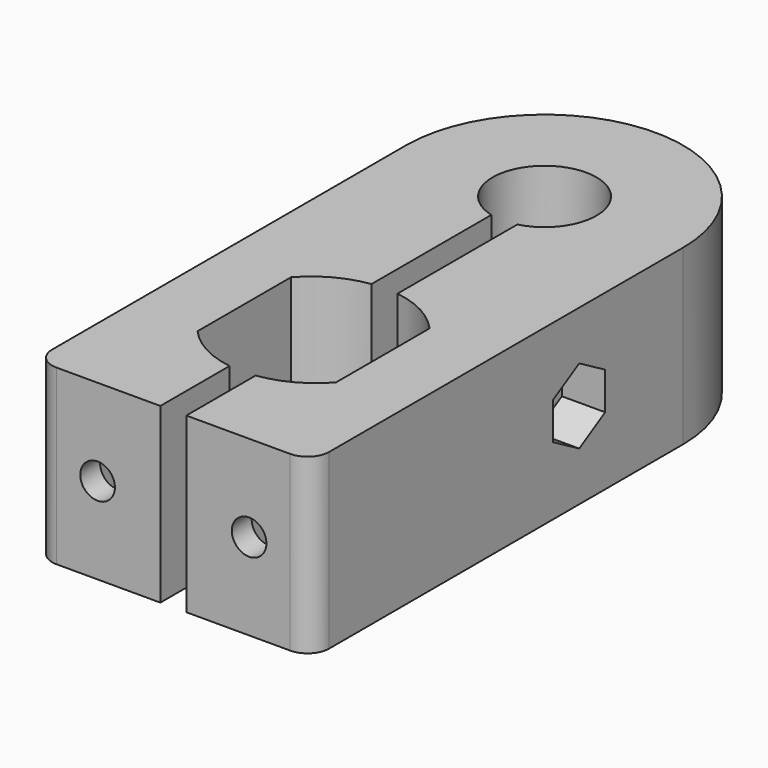
from build123d import *

# Parameters (mm, degrees)
PAD_DEPTH       = 20
SKETCH004_R     = 1.75
POCKET002_DEPTH = 50
POCKET003_DEPTH = 5
POCKET004_DEPTH = 15
SKETCH007_R     = 2
POCKET005_DEPTH = 15
SKETCH008_R     = 8.1
POCKET006_DEPTH = 10


with BuildPart() as part:
    # Sketch003 → Pad (new body)
    with BuildSketch(Plane.XY):
        with BuildLine():
            Line((-8, -26.6), (-8, -40.1))
            ThreePointArc((-8, -40.1), (-5.061117, -42.425857), (-1.5, -43.594227))
            Line((-1.5, -53.594227), (-1.5, -43.594227))
            Line((-13.5, -53.594227), (-1.5, -53.594227))
            ThreePointArc((-16, -51.094227), (-15.267767, -52.861994), (-13.5, -53.594227))
            Line((-16, 0), (-16, -51.094227))
            ThreePointArc((16, 0), (0, 16), (-16, 0))
            Line((16, -51.094227), (16, 0))
            ThreePointArc((13.5, -53.594227), (15.267767, -52.861994), (16, -51.094227))
            Line((1.5, -53.594227), (13.5, -53.594227))
            Line((1.5, -53.594227), (1.5, -43.594227))
            ThreePointArc((1.5, -43.594227), (5.061117, -42.425857), (8, -40.1))
            Line((8, -40.1), (8, -26.6))
            ThreePointArc((8, -26.6), (5.061117, -24.274143), (1.5, -23.105773))
            Line((1.5, -5.809475), (1.5, -23.105773))
            ThreePointArc((1.5, -5.809475), (0, 6), (-1.5, -5.809475))
            Line((-1.5, -5.809475), (-1.5, -23.105773))
            ThreePointArc((-1.5, -23.105773), (-5.061117, -24.274143), (-8, -26.6))
        make_face()
    extrude(amount=PAD_DEPTH)

    # Sketch004 (on Face9 of Pad) → Pocket002 (cut)
    with BuildSketch(Plane(origin=(-16, 0, 0), x_dir=(0, -1, 0), z_dir=(-1, 0, 0))):
        with Locations((15, 10)):
            Circle(SKETCH004_R)
    extrude(amount=-POCKET002_DEPTH, mode=Mode.SUBTRACT)

    # Sketch005 (on Face17 of Pocket002) → Pocket003 (cut)
    with BuildSketch(Plane(origin=(16, 0, 0), x_dir=(0, -1, 0), z_dir=(-1, 0, 0))):
        Polygon((18.75, 7.834936), (18.75, 12.165064), (15, 14.330127), (11.25, 12.165064), (11.25, 7.834936), (15, 5.669873), align=None)
    extrude(amount=POCKET003_DEPTH, mode=Mode.SUBTRACT)

    # Sketch006 → Pocket004 (cut)
    with BuildSketch(Plane(origin=(0, 0, 0), x_dir=(1, 0, 0), z_dir=(0, 0, -1))):
        Polygon((-7, 50.72662), (-6.15, 50.72662), (-6.15, 46.72662), (-11.85, 46.72662), (-11.85, 50.72662), (-11, 50.72662), align=None)
        Polygon((11, 50.72662), (11.85, 50.72662), (11.85, 46.72662), (6.15, 46.72662), (6.15, 50.72662), (7, 50.72662), align=None)
    extrude(amount=-POCKET004_DEPTH, mode=Mode.SUBTRACT)

    # Sketch007 (on Face16 of Pocket004) → Pocket005 (cut)
    with BuildSketch(Plane.XZ.offset(53.594227)):
        with Locations((-8.75, 10)):
            Circle(SKETCH007_R)
        with Locations((8.75, 10)):
            Circle(SKETCH007_R)
    extrude(amount=-POCKET005_DEPTH, mode=Mode.SUBTRACT)

    # Sketch008 (on Face4 of Pocket005) → Pocket006 (cut)
    with BuildSketch(Plane(origin=(0, 0, 0), x_dir=(1, 0, 0), z_dir=(0, 0, -1))):
        Circle(SKETCH008_R)
    extrude(amount=-POCKET006_DEPTH, mode=Mode.SUBTRACT)


solid = part.part
